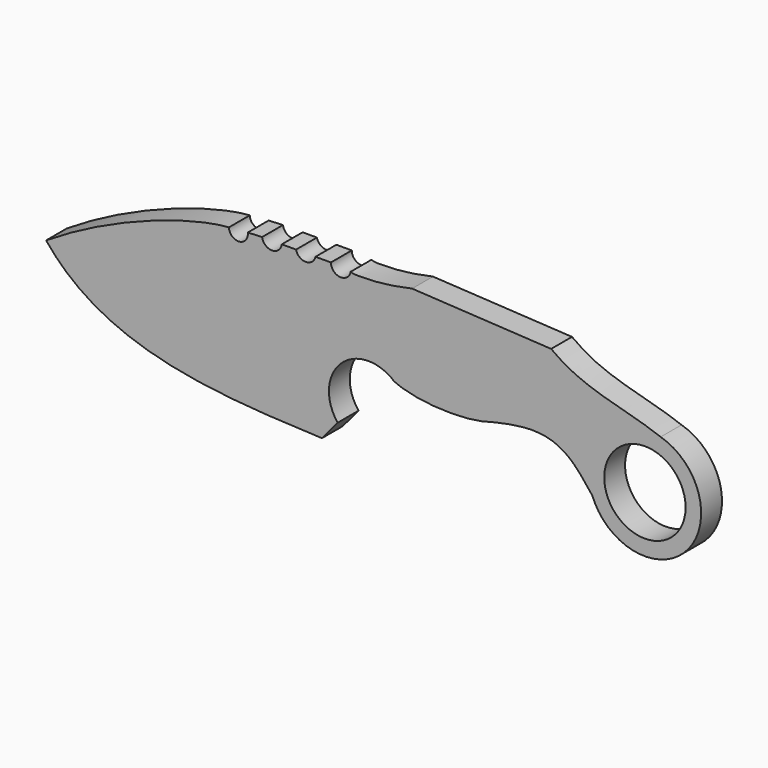
from build123d import *

# Parameters (mm, degrees)
F0_R     = 11.1002676346
F1_DEPTH = 7.112


with BuildPart() as f1:
    # F0 (on Front) → F1 (new body)
    with BuildSketch(Plane.XZ):
        with BuildLine():
            ThreePointArc((-28.9238487713, 43.4874370513), (-31.8417154654, 41.2631470908), (-34.3433879316, 43.9469963312))
            Line((-34.3433879316, 43.9469963312), (-38.5404489934, 43.9469963312))
            ThreePointArc((-38.5404489934, 43.9469963312), (-41.1935001612, 41.8414797087), (-43.8465513289, 43.9469963312))
            Line((-43.8465513289, 43.9469963312), (-47.7376915514, 43.9469963312))
            ThreePointArc((-47.7376915514, 43.9469963312), (-50.4202209413, 41.6067623115), (-53.1027503312, 43.9469963312))
            Line((-53.1027503312, 43.9469963312), (-57.0200905204, 43.7591150403))
            ThreePointArc((-57.0200905204, 43.7591150403), (-57.0113369766, 43.092435836), (-57.1736224025, 42.4457510391))
            ThreePointArc((-57.1736224025, 42.4457510391), (-60.0285652732, 40.8507993338), (-62.1561594307, 43.3343276381))
            add(Edge.make_bspline(
                [(-112.0357811451, 23.9776968956), (-92.9390639067, 36.2371653318), (-71.5056391184, 42.7196059605), (-62.1561594307, 43.3343276381)],
                knots=[0, 0, 0, 0, 0.7368858585, 0.7368858585, 0.7368858585, 0.7368858585], degree=3))
            add(Edge.make_bspline(
                [(-36.7892459035, 0.9486632771), (-66.7406320572, 2.1232275758), (-95.9974229336, 3.8856838364), (-112.0357811451, 23.9776968956)],
                knots=[0, 0, 0, 0, 78.6916606463, 78.6916606463, 78.6916606463, 78.6916606463], degree=3))
            Line((-36.7892459035, 0.9486632771), (-32.4876937115, 6.072126331))
            ThreePointArc((-32.4876937115, 6.072126331), (-32.6386039848, 19.4193686965), (-19.6879729629, 22.6524490863))
            ThreePointArc((-19.6879729629, 22.6524490863), (-18.3323991504, 21.9194060304), (-17.0953891825, 21.0003092879))
            add(Edge.make_bspline(
                [(6.6555179041, 19.1500785461), (0.9244663771, 17.9030998445), (-10.7726783896, 18.050524278), (-17.0953891825, 21.0003092879)],
                knots=[0, 0, 0, 0, 0.49185709, 0.49185709, 0.49185709, 0.49185709], degree=3))
            add(Edge.make_bspline(
                [(36.9700267911, 11.1494921148), (32.886029432, 16.2799953356), (27.8643252538, 23.8588869819), (11.8520011969, 20.5491422263), (6.6555179041, 19.1500785461)],
                knots=[0, 0, 0, 0, 0.3035047621, 0.4422302713, 0.4422302713, 0.4422302713, 0.4422302713], degree=3))
            ThreePointArc((36.9700267911, 11.1494921148), (62.5770277208, 6.1588707444), (55.6138120592, 31.3012339175))
            add(Edge.make_bspline(
                [(25.7371558529, 42.729893316), (34.6145431232, 35.8809284759), (45.6531612823, 35.1182930171), (55.6138120592, 31.3012339175)],
                knots=[0, 0, 0, 0, 31.9879483824, 31.9879483824, 31.9879483824, 31.9879483824], degree=3))
            Line((25.7371558529, 42.729893316), (-12.1854665813, 44.8704426206))
            add(Edge.make_bspline(
                [(-12.1854665813, 44.8704426206), (-20.3191175134, 42.9574390185), (-28.4139272796, 42.8222121718), (-28.9238487713, 43.4874370513)],
                knots=[0.0361898776, 0.0361898776, 0.0361898776, 0.0361898776, 0.7742766932, 0.7742766932, 0.7742766932, 0.7742766932], degree=3))
        make_face()
        with Locations((51.3174180221, 16.575922902)):
            Circle(F0_R, mode=Mode.SUBTRACT)
    extrude(amount=F1_DEPTH)


solid = f1.part
